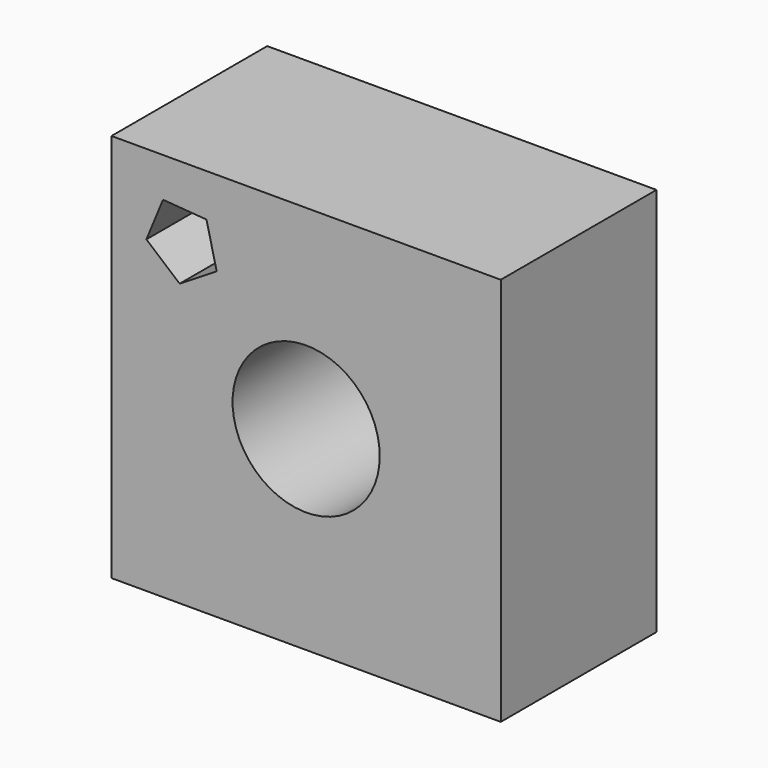
from build123d import *

# Parameters (mm, degrees)
F0_W     = 50
F0_H     = 50
F0_R     = 9.451167
F1_DEPTH = 25


with BuildPart() as f1:
    # F0 (on Front) → F1 (new body)
    with BuildSketch(Plane.XZ):
        with Locations((25, 25)):
            Rectangle(F0_W, F0_H)
        Polygon((6.614173, 44.94232), (12.19521, 44.5163), (13.514675, 39.076772), (8.749114, 36.140979), (4.484369, 39.766087), align=None, mode=Mode.SUBTRACT)
        with Locations((25, 25)):
            Circle(F0_R, mode=Mode.SUBTRACT)
    extrude(amount=F1_DEPTH)


solid = f1.part
